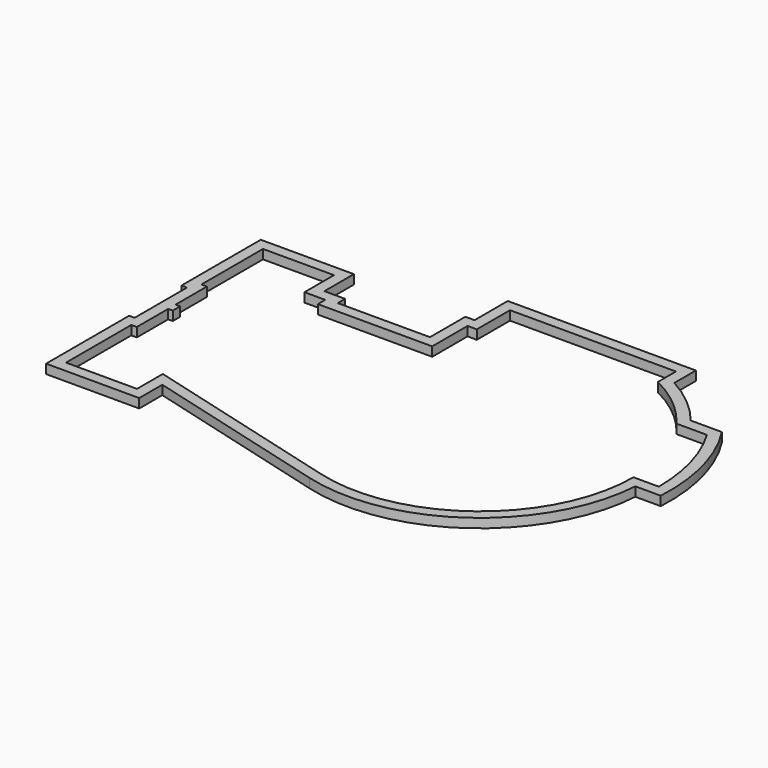
from build123d import *

# Parameters (mm, degrees)
F1_DEPTH = 1


with BuildPart() as f1:
    # F0 (on Top) → F1 (new body, symmetric)
    with BuildSketch(Plane.XY):
        with BuildLine():
            Line((-70.4106393839, -7.0998651044), (-70.4106393839, -29.5998683792))
            Line((-70.4106393839, -29.5998683792), (-50.2106361091, -29.5998683792))
            Line((-50.2106361091, -29.5998683792), (-50.2106361091, -23.339858427))
            Line((-50.2106361091, -23.339858427), (-9.3698940826, -34.4484426613))
            ThreePointArc((-9.3698940826, -34.4484426613), (20.713103481, -29.0767512129), (35.6192379066, -2.4000016374))
            Line((35.6192379066, -2.4000016374), (41.13003923, -2.4000016374))
            ThreePointArc((41.13003923, -2.4000016374), (39.8466372276, 10.4730910707), (34.6344497709, 22.3135614366))
            Line((34.6344497709, 22.3135614366), (27.8674558028, 22.3135614366))
            ThreePointArc((27.8674558028, 22.3135614366), (22.9275534697, 27.3645282949), (17.0897025746, 31.3437742274))
            Line((17.0897025746, 31.3437742274), (17.0897025746, 37.1873599962))
            Line((17.0897025746, 37.1873599962), (-23.7103007001, 37.1873599962))
            Line((-23.7103007001, 37.1873599962), (-23.7103007001, 28.1873608961))
            Line((-23.7103007001, 28.1873608961), (-25.7103007001, 28.1873608961))
            Line((-25.7103007001, 28.1873608961), (-25.7103007001, 18.6000016374))
            Line((-25.7103007001, 18.6000016374), (-45.7106326896, 18.6000016374))
            Line((-45.7106326896, 18.6000016374), (-45.7106326896, 20.6000016374))
            Line((-45.7106326896, 20.6000016374), (-50.2106326896, 20.6000016374))
            Line((-50.2106326896, 20.6000016374), (-50.2106326896, 28.6000016374))
            Line((-50.2106326896, 28.6000016374), (-70.4106393839, 28.6000016374))
            Line((-70.4106393839, 28.6000016374), (-70.4106393839, 7.0999983626))
            Line((-70.4106393839, 7.0999983626), (-69.2106393839, 7.0999983626))
            Line((-69.2106393839, 7.0999983626), (-69.2106393839, 1.4001348956))
            Line((-69.2106393839, 1.4001348956), (-69.2106393839, -7.0998651044))
            Line((-69.2106393839, -7.0998651044), (-70.4106393839, -7.0998651044))
        make_face()
        with BuildLine():
            ThreePointArc((33.3, 0), (20.2218755926, -26.4568657916), (-8.7399848359, -32.132579496))
            Line((-8.7399848359, -32.132579496), (-52.6106377465, -20.1998667418))
            Line((-52.6106377465, -20.1998667418), (-52.6106377465, -27.1998667418))
            Line((-52.6106377465, -27.1998667418), (-68.0106377465, -27.1998667418))
            Line((-68.0106377465, -27.1998667418), (-68.0106377465, -9.4998667418))
            Line((-68.0106377465, -9.4998667418), (-66.8106377465, -9.4998667418))
            Line((-66.8106377465, -9.4998667418), (-66.8106377465, -0.9998667418))
            Line((-66.8106377465, -0.9998667418), (-65.8106377465, -0.9998667418))
            Line((-65.8106377465, -0.9998667418), (-65.8106377465, 0))
            Line((-65.8106377465, 0), (-65.8106377465, 1))
            Line((-65.8106377465, 1), (-66.8106377465, 1))
            Line((-66.8106377465, 1), (-66.8106377465, 9.5))
            Line((-66.8106377465, 9.5), (-68.0106377465, 9.5))
            Line((-68.0106377465, 9.5), (-68.0106377465, 26.2))
            Line((-68.0106377465, 26.2), (-52.6106343269, 26.2))
            Line((-52.6106343269, 26.2), (-52.6106343269, 18.2))
            Line((-52.6106343269, 18.2), (-48.1106343269, 18.2))
            Line((-48.1106343269, 18.2), (-48.1106343269, 16.2))
            Line((-48.1106343269, 16.2), (-23.3102990627, 16.2))
            Line((-23.3102990627, 16.2), (-23.3102990627, 25.7873592587))
            Line((-23.3102990627, 25.7873592587), (-21.3102990627, 25.7873592587))
            Line((-21.3102990627, 25.7873592587), (-21.3102990627, 34.7873583588))
            Line((-21.3102990627, 34.7873583588), (14.6897009373, 34.7873583588))
            Line((14.6897009373, 34.7873583588), (14.6897009373, 29.8848236798))
            ThreePointArc((14.6897009373, 29.8848236798), (21.2819230973, 25.6119063969), (26.6897009373, 19.9135597993))
            Line((26.6897009373, 19.9135597993), (33.3000020439, 19.9135597993))
            ThreePointArc((33.3000020439, 19.9135597993), (37.3997331495, 10.3295672876), (38.8, 0))
            Line((38.8, 0), (33.3, 0))
        make_face(mode=Mode.SUBTRACT)
    extrude(amount=F1_DEPTH, both=True)


solid = f1.part
